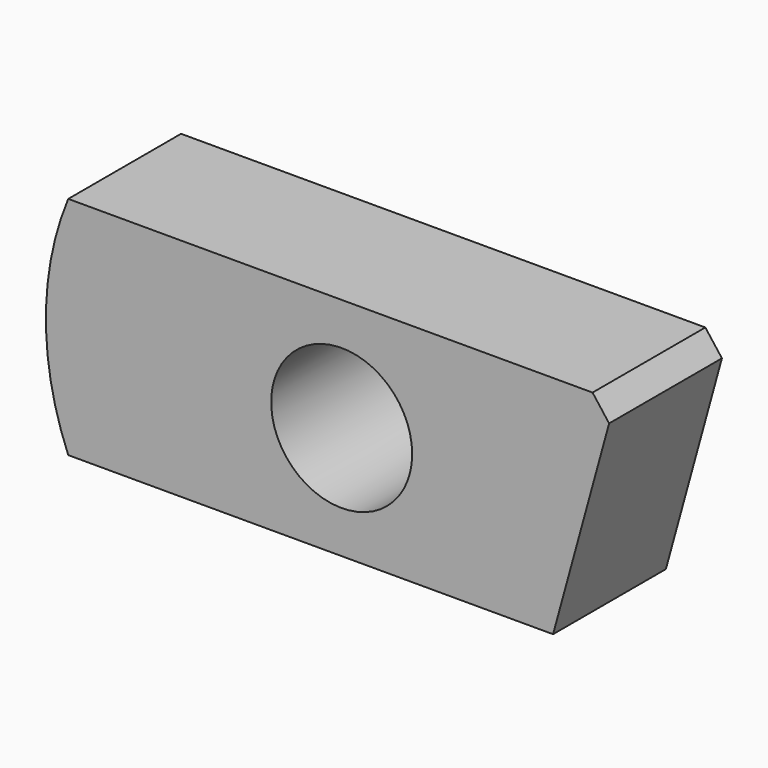
from build123d import *

# Parameters (mm, degrees)
F0_R     = 1.5875
F1_DEPTH = 1.5875
F2_SIZE  = 0.508


with BuildPart() as f1:
    # F0 (on Front) → F1 (new body, symmetric)
    with BuildSketch(Plane.XZ):
        with BuildLine():
            Line((6.503597, 2.54), (-5.810977, 2.54))
            ThreePointArc((-5.810977, 2.54), (-6.314305, 0), (-5.810977, -2.54))
            Line((-5.810977, -2.54), (5.106739, -2.54))
            Line((5.106739, -2.54), (6.503597, 2.54))
        make_face()
        with Locations((0.34631, 0)):
            Circle(F0_R, mode=Mode.SUBTRACT)
    extrude(amount=F1_DEPTH, both=True)

    # F2
    f2_edges = [f1.edges().sort_by_distance(p)[0] for p in [
        (6.503597, 0, 2.54),
    ]]
    chamfer(f2_edges, length=F2_SIZE)


solid = f1.part
